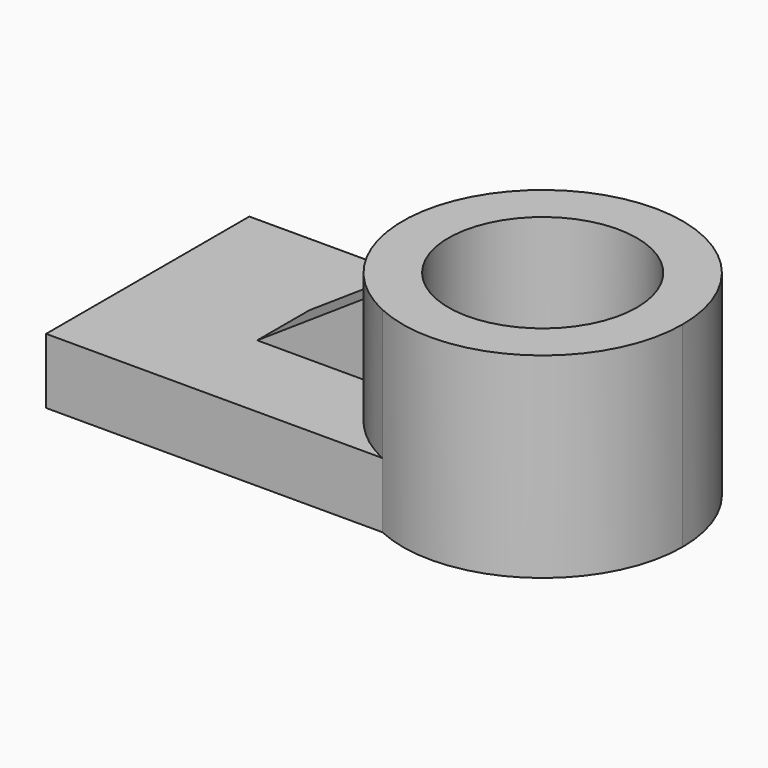
from build123d import *

# Parameters (mm, degrees)
F0_R     = 18.321779
F1_DEPTH = 38.1
F2_DEPTH = 12.7
F4_DEPTH = 6.35


with BuildPart() as f1:
    # F0 (on Top) → F1 (new body)
    with BuildSketch(Plane.XY):
        with BuildLine():
            ThreePointArc((65.62934, 0), (53.067244, 22.936208), (26.97591, 24.702042))
            ThreePointArc((26.97591, 24.702042), (11.189707, 0), (26.97591, -24.702042))
            ThreePointArc((26.97591, -24.702042), (53.067244, -22.936208), (65.62934, 0))
        make_face()
        with Locations((38.409524, 0)):
            Circle(F0_R, mode=Mode.SUBTRACT)
    extrude(amount=F1_DEPTH)

    # F0 (on Top) → F2 (join)
    with BuildSketch(Plane.XY):
        with BuildLine():
            ThreePointArc((26.97591, -24.702042), (11.189707, 0), (26.97591, 24.702042))
            Line((26.97591, 24.702042), (-38.409524, 24.702042))
            Line((-38.409524, 24.702042), (-38.409524, -24.702042))
            Line((-38.409524, -24.702042), (26.97591, -24.702042))
        make_face()
    extrude(amount=F2_DEPTH)

    # F3 (on Front) → F4 (join, symmetric)
    with BuildSketch(Plane.XZ):
        Polygon((14.299882, 9.182032), (14.299882, 30.255545), (-17.310385, 9.182032), align=None)
    extrude(amount=F4_DEPTH, both=True)


solid = f1.part
